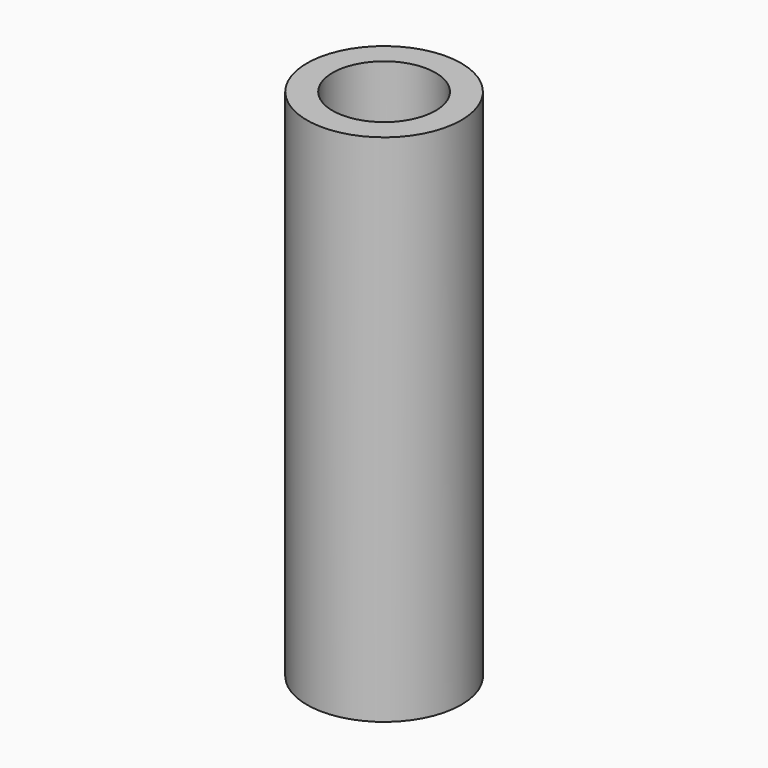
from build123d import *

# Parameters (mm, degrees)
SKETCH003_R     = 3
PAD_DEPTH       = 20
SKETCH004_R     = 2
POCKET_DEPTH    = 5
SKETCH005_R     = 1
POCKET001_DEPTH = 5


with BuildPart() as part:
    # Sketch003 → Pad (new body)
    with BuildSketch(Plane.XY):
        Circle(SKETCH003_R)
    extrude(amount=PAD_DEPTH)

    # Sketch004 (on Face3 of Pad) → Pocket (cut)
    with BuildSketch(Plane.XY.offset(20)):
        Circle(SKETCH004_R)
    extrude(amount=-POCKET_DEPTH, mode=Mode.SUBTRACT)

    # Sketch005 (on Face2 of Pocket) → Pocket001 (cut)
    with BuildSketch(Plane(origin=(0, 0, 0), x_dir=(1, 0, 0), z_dir=(0, 0, -1))):
        Circle(SKETCH005_R)
    extrude(amount=-POCKET001_DEPTH, mode=Mode.SUBTRACT)


solid = part.part
